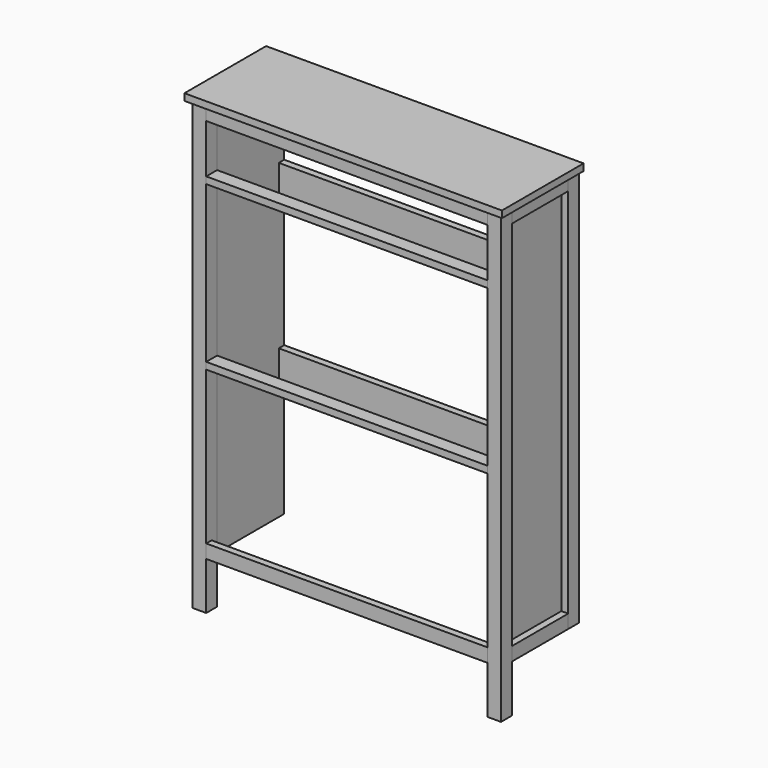
from build123d import *

# Parameters (mm, degrees)
F0_W      = 38.1
F0_H      = 1250.95
F1_DEPTH  = 38.1
F2_W      = 234.95
F2_H      = 1117.6
F3_DEPTH  = 19.05
F4_W      = 38.1
F4_H      = 1117.6
F5_DEPTH  = 19.05
F6_W      = 196.85
F6_H      = 38.1
F7_DEPTH  = 19.05
F8_W      = 196.85
F8_H      = 38.1
F9_DEPTH  = 19.05
F10_W     = 38.1
F10_H     = 1250.95
F11_DEPTH = 38.1
F12_W     = 234.95
F12_H     = 1117.6
F13_DEPTH = 19.05
F14_W     = 38.1
F14_H     = 1117.6
F15_DEPTH = 19.05
F16_W     = 196.85
F16_H     = 38.1
F17_DEPTH = 19.05
F18_W     = 196.85
F18_H     = 38.1
F19_DEPTH = 19.05
F20_W     = 787.4
F20_H     = 38.1
F21_DEPTH = 19.05
F22_W     = 787.4
F22_H     = 38.1
F23_DEPTH = 19.05
F24_W     = 787.4
F24_H     = 19.05
F25_DEPTH = 38.1
F26_W     = 787.4
F26_H     = 19.05
F27_DEPTH = 38.1
F28_W     = 787.4
F28_H     = 88.9
F29_DEPTH = 19.05
F30_W     = 787.4
F30_H     = 88.9
F31_DEPTH = 19.05
F32_W     = 889
F32_H     = 285.75
F32_W_2   = 38.1
F32_H_2   = 38.1
F33_DEPTH = 19.05


with BuildPart() as f1:
    # F0 (on Front) → F1 (new body)
    with BuildSketch(Plane.XZ):
        with Locations((19.05, 625.475)):
            Rectangle(F0_W, F0_H)
    extrude(amount=-F1_DEPTH)


with BuildPart() as f3:
    # F2 (on face) → F3 (new body)
    with BuildSketch(Plane.YZ.offset(38.1)):
        with Locations((155.575, 692.15)):
            Rectangle(F2_W, F2_H)
    extrude(amount=-F3_DEPTH)


with BuildPart() as f5:
    # F4 (on face) → F5 (new body)
    with BuildSketch(Plane(origin=(19.05, 0, 0), x_dir=(0, -1, 0), z_dir=(-1, 0, 0))):
        with Locations((-254, 692.15)):
            Rectangle(F4_W, F4_H)
    extrude(amount=F5_DEPTH)


with BuildPart() as f7:
    # F6 (on face) → F7 (new body)
    with BuildSketch(Plane(origin=(19.05, 0, 0), x_dir=(0, -1, 0), z_dir=(-1, 0, 0))):
        with Locations((-136.525, 1231.9)):
            Rectangle(F6_W, F6_H)
    extrude(amount=F7_DEPTH)


with BuildPart() as f9:
    # F8 (on face) → F9 (new body)
    with BuildSketch(Plane(origin=(19.05, 0, 0), x_dir=(0, -1, 0), z_dir=(-1, 0, 0))):
        with Locations((-136.525, 152.4)):
            Rectangle(F8_W, F8_H)
    extrude(amount=F9_DEPTH)


with BuildPart() as f11:
    # F10 (on Front) → F11 (new body)
    with BuildSketch(Plane.XZ):
        with Locations((844.55, 625.475)):
            Rectangle(F10_W, F10_H)
    extrude(amount=-F11_DEPTH)


with BuildPart() as f13:
    # F12 (on face) → F13 (new body)
    with BuildSketch(Plane(origin=(825.5, 0, 0), x_dir=(0, -1, 0), z_dir=(-1, 0, 0))):
        with Locations((-155.575, 692.15)):
            Rectangle(F12_W, F12_H)
    extrude(amount=-F13_DEPTH)


with BuildPart() as f15:
    # F14 (on face) → F15 (new body)
    with BuildSketch(Plane.YZ.offset(844.55)):
        with Locations((254, 692.15)):
            Rectangle(F14_W, F14_H)
    extrude(amount=F15_DEPTH)


with BuildPart() as f17:
    # F16 (on face) → F17 (new body)
    with BuildSketch(Plane.YZ.offset(844.55)):
        with Locations((136.525, 1231.9)):
            Rectangle(F16_W, F16_H)
    extrude(amount=F17_DEPTH)


with BuildPart() as f19:
    # F18 (on face) → F19 (new body)
    with BuildSketch(Plane.YZ.offset(844.55)):
        with Locations((136.525, 152.4)):
            Rectangle(F18_W, F18_H)
    extrude(amount=F19_DEPTH)


with BuildPart() as f21:
    # F20 (on face) → F21 (new body)
    with BuildSketch(Plane.XZ):
        with Locations((431.8, 1231.9)):
            Rectangle(F20_W, F20_H)
    extrude(amount=-F21_DEPTH)


with BuildPart() as f23:
    # F22 (on face) → F23 (new body)
    with BuildSketch(Plane.XZ):
        with Locations((431.8, 152.4)):
            Rectangle(F22_W, F22_H)
    extrude(amount=-F23_DEPTH)


with BuildPart() as f25:
    # F24 (on face) → F25 (new body)
    with BuildSketch(Plane.XZ):
        with Locations((431.8, 609.6)):
            Rectangle(F24_W, F24_H)
    extrude(amount=-F25_DEPTH)


with BuildPart() as f27:
    # F26 (on face) → F27 (new body)
    with BuildSketch(Plane.XZ):
        with Locations((431.8, 1066.8)):
            Rectangle(F26_W, F26_H)
    extrude(amount=-F27_DEPTH)


with BuildPart() as f29:
    # F28 (on face) → F29 (new body)
    with BuildSketch(Plane(origin=(0, 273.05, 0), x_dir=(-1, 0, 0), z_dir=(0, 1, 0))):
        with Locations((-431.8, 962.025)):
            Rectangle(F28_W, F28_H)
    extrude(amount=-F29_DEPTH)


with BuildPart() as f31:
    # F30 (on face) → F31 (new body)
    with BuildSketch(Plane(origin=(0, 273.05, 0), x_dir=(-1, 0, 0), z_dir=(0, 1, 0))):
        with Locations((-431.8, 504.825)):
            Rectangle(F30_W, F30_H)
    extrude(amount=-F31_DEPTH)


with BuildPart() as f33:
    # F32 (on face) → F33 (new body)
    with BuildSketch(Plane.XY.offset(1250.95)):
        with Locations((431.8, 130.175)):
            Rectangle(F32_W, F32_H)
        with Locations((19.05, 19.05)):
            Rectangle(F32_W_2, F32_H_2, mode=Mode.SUBTRACT)
        with Locations((19.05, 19.05)):
            Rectangle(F32_W_2, F32_H_2)
    extrude(amount=F33_DEPTH)


solid = Compound([f1.part, f3.part, f5.part, f7.part, f9.part, f11.part, f13.part, f15.part, f17.part, f19.part, f21.part, f23.part, f25.part, f27.part, f29.part, f31.part, f33.part])
